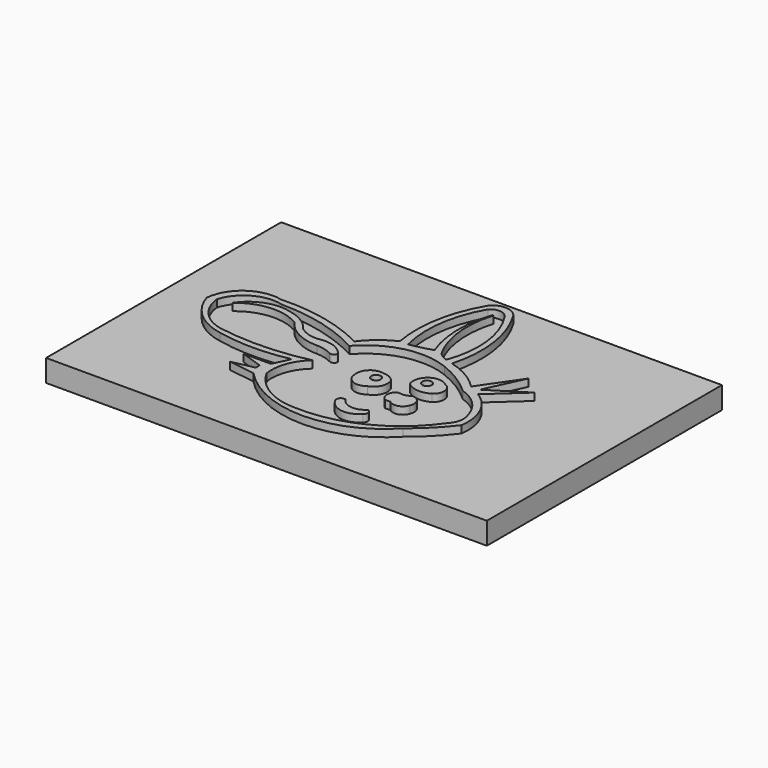
from build123d import *

# Parameters (mm, degrees)
F0_W     = 60
F0_H     = 40
F1_DEPTH = 3
F2_R     = 0.644788
F3_DEPTH = 1


with BuildPart() as f1:
    # F0 (on Top) → F1 (new body)
    with BuildSketch(Plane.XY):
        Rectangle(F0_W, F0_H)
    extrude(amount=F1_DEPTH)

    # F2 (on face) → F3 (join)
    with BuildSketch(Plane.XY.offset(3)):
        with BuildLine():
            ThreePointArc((-1.83289, 4.985239), (-3.905066, 3.701445), (-5.582823, 1.933065))
            ThreePointArc((-5.582823, 1.933065), (-11.454748, 4.059319), (-17.675988, 4.603948))
            ThreePointArc((-17.675988, 4.603948), (-21.960088, 3.783559), (-24.130624, 0))
            ThreePointArc((-24.130624, 0), (-21.816485, -3.576152), (-17.972754, -5.411863))
            ThreePointArc((-17.972754, -5.411863), (-13.11323, -5.912843), (-8.253707, -5.411863))
            ThreePointArc((-8.253707, -5.411863), (-8.750343, -6.535326), (-9.292384, -7.637599))
            Line((-9.292384, -7.637599), (-13.007432, -7.637599))
            Line((-13.007432, -7.637599), (-9.992245, -8.657275))
            Line((-9.992245, -8.657275), (-9.992245, -9.32379))
            Line((-9.992245, -9.32379), (-12.975693, -9.958565))
            Line((-12.975693, -9.958565), (-9.40157, -10.466387))
            ThreePointArc((-9.40157, -10.466387), (0.779134, -14.859459), (10.959839, -10.466387))
            ThreePointArc((10.959839, -10.466387), (13.302708, -8.380835), (15.35197, -6.006159))
            ThreePointArc((15.35197, -6.006159), (14.817038, -2.212991), (12.276846, 0.65436))
            Line((12.276846, 0.65436), (16.732113, 4.702753))
            Line((16.732113, 4.702753), (11.768254, 1.590169))
            Line((11.768254, 1.590169), (14.189153, 6.818497))
            Line((14.189153, 6.818497), (10.58832, 1.590169))
            ThreePointArc((10.58832, 1.590169), (8.332541, 3.347539), (5.691082, 4.442793))
            ThreePointArc((5.691082, 4.442793), (6.116375, 10.969097), (3.898917, 17.121852))
            ThreePointArc((3.898917, 17.121852), (2.138019, 18.066027), (0.337851, 17.199064))
            ThreePointArc((0.337851, 17.199064), (-1.843688, 11.286972), (-1.83289, 4.985239))
        make_face()
        with BuildLine():
            ThreePointArc((-16.881408, 3.753243), (-10.934, 3.001613), (-5.359556, 0.796576))
            ThreePointArc((-5.359556, 0.796576), (-0.360554, 3.835426), (5.475548, 3.429784))
            ThreePointArc((5.475548, 3.429784), (8.143257, 2.076287), (10.519474, 0.259086))
            ThreePointArc((10.519474, 0.259086), (13.137989, -1.406759), (14.542523, -4.174239))
            ThreePointArc((14.542523, -4.174239), (14.542426, -5.421421), (13.926209, -6.505736))
            ThreePointArc((13.926209, -6.505736), (7.417681, -12.145032), (-1.009353, -13.919206))
            ThreePointArc((-1.009353, -13.919206), (-5.238705, -12.765816), (-8.291389, -9.619573))
            ThreePointArc((-8.291389, -9.619573), (-8.012131, -6.67233), (-6.334951, -4.232804))
            ThreePointArc((-6.334951, -4.232804), (-12.5061, -5.009925), (-18.710274, -4.568096))
            ThreePointArc((-18.710274, -4.568096), (-21.679234, -2.77657), (-23.069071, 0.400322))
            ThreePointArc((-23.069071, 0.400322), (-20.659117, 3.338847), (-16.881408, 3.753243))
        make_face(mode=Mode.SUBTRACT)
        with BuildLine():
            ThreePointArc((3.385171, 16.296154), (5.408767, 10.671196), (4.671817, 4.738912))
            ThreePointArc((4.671817, 4.738912), (3.965382, 5.075268), (3.362598, 5.574104))
            ThreePointArc((3.362598, 5.574104), (1.751569, 10.604004), (2.241873, 15.862798))
            Line((2.241873, 15.862798), (2.090248, 15.862798))
            ThreePointArc((2.090248, 15.862798), (1.321883, 10.754523), (2.324252, 5.686968))
            ThreePointArc((2.324252, 5.686968), (0.823876, 5.275564), (-0.700495, 4.96464))
            ThreePointArc((-0.700495, 4.96464), (-1.037753, 10.93409), (0.90217, 16.589599))
            ThreePointArc((0.90217, 16.589599), (2.215281, 17.048816), (3.385171, 16.296154))
        make_face(mode=Mode.SUBTRACT)
        with BuildLine():
            ThreePointArc((3.027315, -2.605882), (2.311567, -2.050264), (1.427228, -1.8529))
            ThreePointArc((1.427228, -1.8529), (-0.272035, -2.308318), (-0.800345, -3.98635))
            ThreePointArc((-0.800345, -3.98635), (0.170039, -5.458062), (1.919497, -5.24132))
            ThreePointArc((1.919497, -5.24132), (3.083669, -4.180128), (3.027315, -2.605882))
        make_face()
        with Locations((1.427228, -3.139245)):
            Circle(F2_R, mode=Mode.SUBTRACT)
        with BuildLine():
            ThreePointArc((8.07857, 0.280549), (7.398587, 0.631767), (6.635354, 0.688415))
            ThreePointArc((6.635354, 0.688415), (5.214115, -0.287698), (5.12939, -2.009772))
            ThreePointArc((5.12939, -2.009772), (6.714717, -2.684062), (8.392313, -2.29214))
            ThreePointArc((8.392313, -2.29214), (9.02358, -0.909681), (8.07857, 0.280549))
        make_face()
        with Locations((6.480221, -0.763344)):
            Circle(F2_R, mode=Mode.SUBTRACT)
        with BuildLine():
            ThreePointArc((7.168717, -4.017724), (6.306207, -4.355034), (5.380385, -4.331466))
            ThreePointArc((5.380385, -4.331466), (4.763195, -5.429565), (5.380385, -6.527665))
            Line((5.380385, -6.527665), (6.070618, -6.49629))
            ThreePointArc((6.070618, -6.49629), (7.335615, -6.766785), (8.235442, -5.837431))
            ThreePointArc((8.235442, -5.837431), (8.175536, -4.650034), (7.168717, -4.017724))
        make_face()
        with BuildLine():
            ThreePointArc((5.363596, -9.458974), (3.596654, -10.093438), (2.020633, -9.073249))
            ThreePointArc((2.020633, -9.073249), (1.352594, -9.275514), (1.334897, -9.973277))
            ThreePointArc((1.334897, -9.973277), (3.309765, -11.368484), (5.577887, -10.530437))
            ThreePointArc((5.577887, -10.530437), (5.827257, -9.923403), (5.363596, -9.458974))
        make_face()
        with BuildLine():
            ThreePointArc((-21.25046, 0.778031), (-17.402552, 2.364946), (-13.349544, 1.417411))
            ThreePointArc((-13.349544, 1.417411), (-11.052781, -0.571642), (-8.097489, -1.277121))
            ThreePointArc((-8.097489, -1.277121), (-6.992115, -1.425307), (-5.950998, -1.825162))
            ThreePointArc((-5.950998, -1.825162), (-5.435611, -1.813036), (-5.174607, -1.368461))
            ThreePointArc((-5.174607, -1.368461), (-6.777898, -0.155153), (-8.78254, 0))
            ThreePointArc((-8.78254, 0), (-10.277191, 0.101942), (-11.614082, 0.778031))
            ThreePointArc((-11.614082, 0.778031), (-13.17973, 2.239961), (-15.176346, 3.015862))
            ThreePointArc((-15.176346, 3.015862), (-18.581793, 2.896863), (-21.25046, 0.778031))
        make_face()
    extrude(amount=F3_DEPTH)


solid = f1.part
